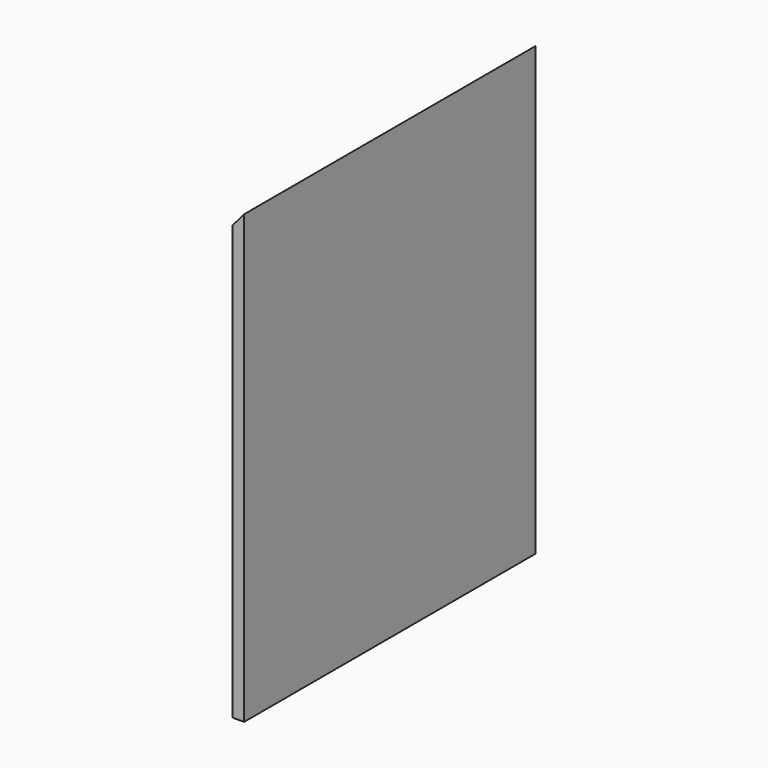
from build123d import *

# Parameters (mm, degrees)
PAD_DEPTH = 600


with BuildPart() as part:
    # Sketch → Pad (new body)
    with BuildSketch(Plane.XZ):
        Polygon((0, 0), (0, 736.517796), (-19, 714.285837), (-19, 0), align=None)
    extrude(amount=PAD_DEPTH)


solid = part.part
